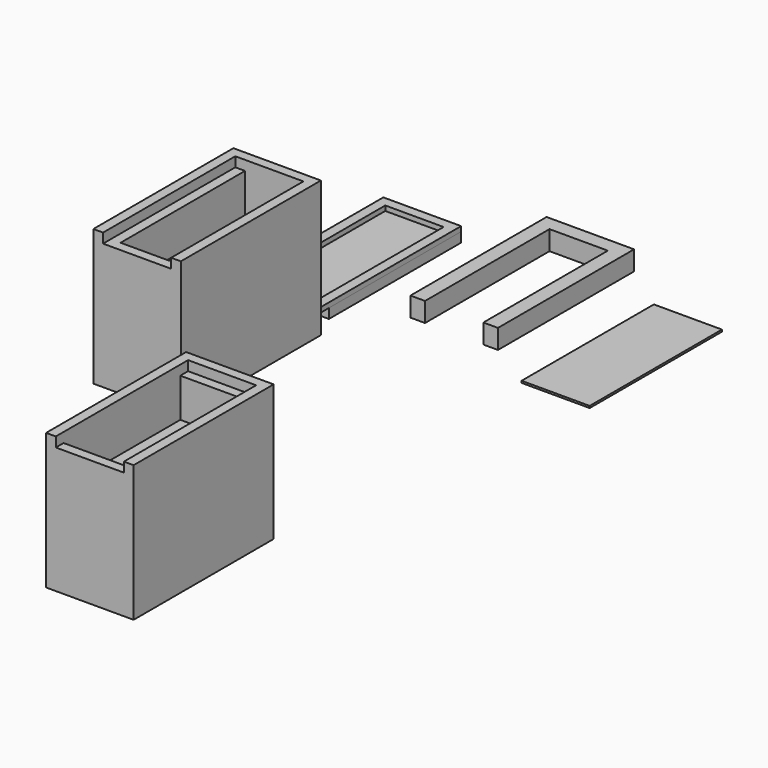
from build123d import *

# Parameters (mm, degrees)
F0_W      = 9
F0_H      = 18
F1_DEPTH  = 13
F2_W      = 4
F2_H      = 4
F3_DEPTH  = 6
F4_W      = 5
F4_H      = 4
F5_DEPTH  = 17
F7_DEPTH  = 0.5
F8_W      = 8
F8_H      = 17
F9_DEPTH  = 1
F10_W     = 7
F10_H     = 0.2
F11_DEPTH = 16.5
F13_DEPTH = 2
F14_W     = 7
F14_H     = 17
F15_DEPTH = 0.2
F16_W     = 5
F16_H     = 3
F17_DEPTH = 25
F19_DEPTH = 1
F20_W     = 5
F20_H     = 1
F21_DEPTH = 13
F22_W     = 9
F22_H     = 18
F23_DEPTH = 13
F24_W     = 7
F24_H     = 15
F25_DEPTH = 4
F26_W     = 4
F26_H     = 4
F27_DEPTH = 6
F26_W_2   = 7
F26_H_2   = 2
F28_DEPTH = 9
F30_DEPTH = 1


with BuildPart() as f1:
    # F0 (on Top) → F1 (new body)
    with BuildSketch(Plane.XY):
        Rectangle(F0_W, F0_H)
    extrude(amount=F1_DEPTH)

    # F2 (on face) → F3 (cut)
    with BuildSketch(Plane(origin=(0, 0, 0), x_dir=(1, 0, 0), z_dir=(0, 0, -1))):
        with Locations((0, -2.1)):
            Rectangle(F2_W, F2_H)
    extrude(amount=-F3_DEPTH, mode=Mode.SUBTRACT)

    # F4 (on face) → F5 (cut)
    with BuildSketch(Plane.XZ.offset(9)):
        with Locations((0, 11)):
            Rectangle(F4_W, F4_H)
    extrude(amount=-F5_DEPTH, mode=Mode.SUBTRACT)

    # F16 (on face) → F17 (cut)
    with BuildSketch(Plane.XY.offset(9)):
        with Locations((0, -7.5)):
            Rectangle(F16_W, F16_H)
    extrude(amount=-F17_DEPTH, mode=Mode.SUBTRACT)

    # F18 (on face) → F19 (join)
    with BuildSketch(Plane.XY.offset(13)):
        Polygon((-4.5, 9), (-4.5, -9), (-3.5, -9), (-3.5, 8), (3.5, 8), (3.5, -9), (4.5, -9), (4.5, 9), align=None)
    extrude(amount=F19_DEPTH)

    # F20 (on face) → F21 (join)
    with BuildSketch(Plane(origin=(0, 0, 0), x_dir=(1, 0, 0), z_dir=(0, 0, -1))):
        with Locations((0, 8.5)):
            Rectangle(F20_W, F20_H)
    extrude(amount=-F21_DEPTH)


with BuildPart() as f7:
    # F6 (on Top) → F7 (new body)
    with BuildSketch(Plane.XY):
        Polygon((-5.952834, 30.092424), (-5.952834, 12.092424), (-4.952834, 12.092424), (-4.952834, 29.092424), (1.047166, 29.092424), (1.047166, 12.092424), (2.047166, 12.092424), (2.047166, 30.092424), align=None)
    extrude(amount=F7_DEPTH)


with BuildPart() as f9:
    # F8 (on Top) → F9 (new body)
    with BuildSketch(Plane.XY):
        with Locations((-1.952834, 21.592424)):
            Rectangle(F8_W, F8_H)
    extrude(amount=-F9_DEPTH)

    # F10 (on face) → F11 (cut)
    with BuildSketch(Plane.XZ.offset(-13.092424)):
        with Locations((-1.952834, -0.1)):
            Rectangle(F10_W, F10_H)
    extrude(amount=-F11_DEPTH, mode=Mode.SUBTRACT)


with BuildPart() as f13:
    # F12 (on Top) → F13 (new body)
    with BuildSketch(Plane.XY):
        Polygon((8.215718, 33.367791), (8.215718, 15.867791), (9.715718, 15.867791), (9.715718, 31.867791), (15.715718, 31.867791), (15.715718, 15.867791), (17.215718, 15.867791), (17.215718, 33.367791), align=None)
    extrude(amount=F13_DEPTH)


with BuildPart() as f15:
    # F14 (on Top) → F15 (new body)
    with BuildSketch(Plane.XY):
        with Locations((25.7798, 21.077234)):
            Rectangle(F14_W, F14_H)
    extrude(amount=F15_DEPTH)


with BuildPart() as f23:
    # F22 (on Top) → F23 (new body)
    with BuildSketch(Plane.XY):
        with Locations((19.184066, -30.054056)):
            Rectangle(F22_W, F22_H)
    extrude(amount=F23_DEPTH)

    # F24 (on face) → F25 (cut)
    with BuildSketch(Plane.XY.offset(13)):
        with Locations((19.184066, -30.554056)):
            Rectangle(F24_W, F24_H)
    extrude(amount=-F25_DEPTH, mode=Mode.SUBTRACT)

    # F26 (on face) → F27 (cut)
    with BuildSketch(Plane(origin=(0, 0, 0), x_dir=(1, 0, 0), z_dir=(0, 0, -1))):
        with Locations((19.184066, 27.954056)):
            Rectangle(F26_W, F26_H)
    extrude(amount=-F27_DEPTH, mode=Mode.SUBTRACT)

    # F26 (on face) → F28 (cut)
    with BuildSketch(Plane(origin=(0, 0, 0), x_dir=(1, 0, 0), z_dir=(0, 0, -1))):
        with Locations((19.184066, 37.054056)):
            Rectangle(F26_W_2, F26_H_2)
    extrude(amount=-F28_DEPTH, mode=Mode.SUBTRACT)

    # F29 (on face) → F30 (join)
    with BuildSketch(Plane.XY.offset(13)):
        Polygon((14.684066, -21.054056), (14.684066, -39.054056), (15.684066, -39.054056), (15.684066, -22.054056), (22.684066, -22.054056), (22.684066, -39.054056), (23.684066, -39.054056), (23.684066, -21.054056), align=None)
    extrude(amount=F30_DEPTH)


solid = Compound([f1.part, f7.part, f9.part, f13.part, f15.part, f23.part])
